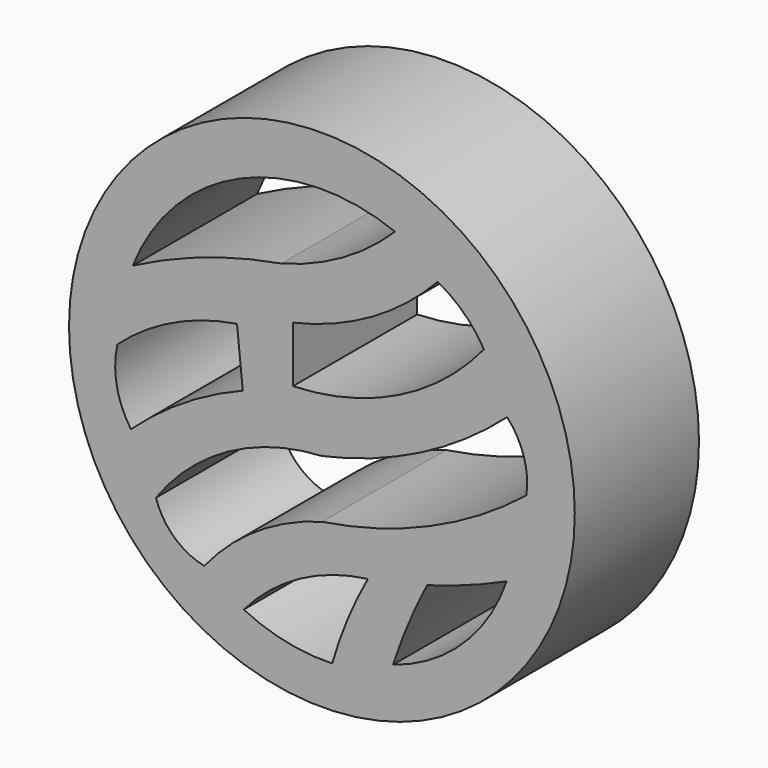
from build123d import *

# Parameters (mm, degrees)
F0_R     = 41.370779
F1_DEPTH = 25.4


with BuildPart() as f1:
    # F0 (on Front) → F1 (new body)
    with BuildSketch(Plane.XZ):
        Circle(F0_R)
        with BuildLine():
            ThreePointArc((-12.782399, -31.483181), (-3.660821, -24.077067), (7.521071, -20.468879))
            ThreePointArc((7.521071, -20.468879), (4.206718, -27.338188), (1.682164, -34.535337))
            ThreePointArc((1.682164, -34.535337), (-5.737986, -33.899594), (-12.782399, -31.483181))
        make_face(mode=Mode.SUBTRACT)
        with BuildLine():
            ThreePointArc((-33.45586, 0), (-24.349175, 6.079473), (-13.887336, 9.310829))
            Line((-13.887336, 9.310829), (-12.940473, 0))
            ThreePointArc((-12.940473, 0), (-22.625743, -4.914319), (-31.246509, -11.520177))
            ThreePointArc((-31.246509, -11.520177), (-33.561186, -5.992144), (-33.45586, 0))
        make_face(mode=Mode.SUBTRACT)
        with BuildLine():
            ThreePointArc((11.634845, -31.483181), (14.145611, -24.732147), (17.208345, -18.212939))
            ThreePointArc((17.208345, -18.212939), (23.798068, -16.061953), (30.213185, -13.435652))
            ThreePointArc((30.213185, -13.435652), (23.090348, -24.689466), (11.634845, -31.483181))
        make_face(mode=Mode.SUBTRACT)
        with BuildLine():
            ThreePointArc((-27.143432, -20.041954), (-15.269377, -9.518494), (0, -5.207751))
            ThreePointArc((0, -5.207751), (16.155086, 0.555474), (30.299643, 10.257693))
            ThreePointArc((30.299643, 10.257693), (33.036565, 5.485405), (33.455856, 0))
            ThreePointArc((33.455856, 0), (17.694228, -9.540944), (0, -14.676391))
            ThreePointArc((0, -14.676391), (-10.612677, -19.480123), (-19.246033, -27.301243))
            ThreePointArc((-19.246033, -27.301243), (-24.182231, -24.7459), (-27.143432, -20.041954))
        make_face(mode=Mode.SUBTRACT)
        with BuildLine():
            ThreePointArc((-6.628047, 20.357573), (-19.098193, 17.198417), (-30.930888, 12.15142))
            ThreePointArc((-30.930888, 12.15142), (-13.366984, 30.425328), (11.972621, 31.000535))
            ThreePointArc((11.972621, 31.000535), (3.368678, 24.461975), (-6.628047, 20.357573))
        make_face(mode=Mode.SUBTRACT)
        with BuildLine():
            Line((-4.73432, 3.314024), (-4.73432, 12.467042))
            ThreePointArc((-4.73432, 12.467042), (8.121853, 17.473178), (18.937279, 26.038757))
            ThreePointArc((18.937279, 26.038757), (23.233083, 22.939564), (26.512189, 18.779468))
            ThreePointArc((26.512189, 18.779468), (12.56259, 7.665278), (-4.73432, 3.314024))
        make_face(mode=Mode.SUBTRACT)
    extrude(amount=F1_DEPTH)


solid = f1.part
